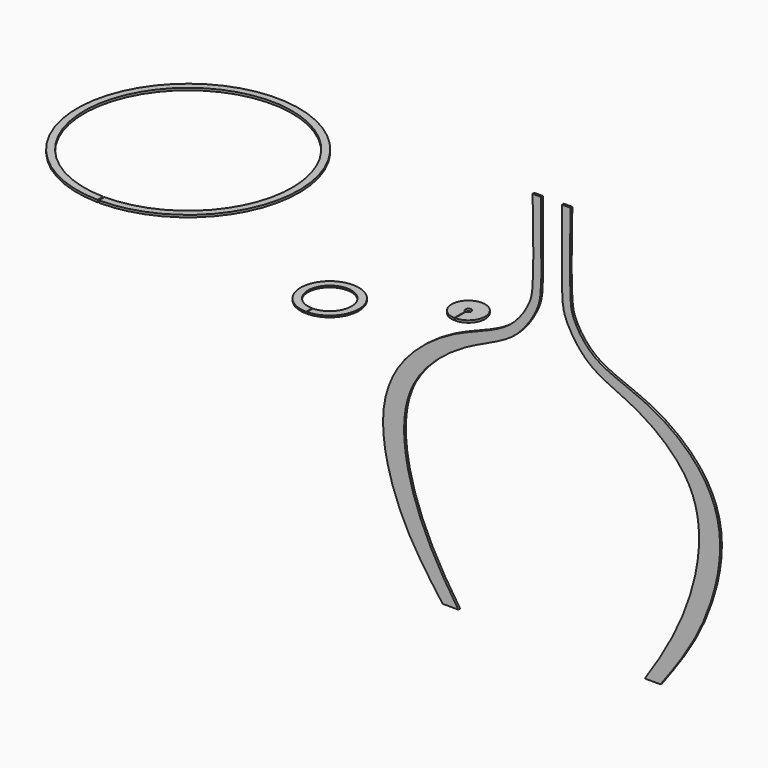
from build123d import *

# Parameters (mm, degrees)
F1_DEPTH = 0.4
F3_DEPTH = 0.4
F6_DEPTH = 0.3
F8_DEPTH = 0.4
F9_DEPTH = 0.4


with BuildPart() as f1:
    # F0 (on Front) → F1 (new body)
    with BuildSketch(Plane.XZ):
        with BuildLine():
            Line((3.4221610986, 0), (1.8824809231, 0))
            add(Edge.make_bspline(
                [(1.8824809231, 0), (1.8903812121, -5.9257154178), (1.6594668434, -14.4064557365), (2.4787172842, -18.43211263), (6.6506599647, -24.738490893), (15.7198781859, -27.5720263129), (27.4382807219, -36.9703939443), (26.5672023611, -53.5146710168), (21.0862921581, -64.1355530397), (16.817227006, -70.414558053)],
                knots=[0, 0, 0, 0, 0.1629214389, 0.247012266, 0.3567945031, 0.4886798756, 0.6462746816, 0.8097112488, 1, 1, 1, 1], degree=3))
            Line((16.817227006, -70.414558053), (19.6510907263, -70.414558053))
            add(Edge.make_bspline(
                [(3.4221610986, 0), (3.2444735314, -5.7591898503), (3.2349564943, -14.2906745538), (3.8118276563, -17.5808403399), (7.498018045, -23.4402005142), (17.8154663316, -26.1043224844), (27.8878603719, -33.7930801493), (31.7612136388, -44.7779110201), (27.5370112916, -59.6956080616), (22.2387276369, -66.8970857954), (19.6510907263, -70.414558053)],
                knots=[0, 0, 0, 0, 0.1487055839, 0.2183301192, 0.3137287288, 0.440892628, 0.5777724202, 0.7066287166, 0.8570783912, 1, 1, 1, 1], degree=3))
        make_face()
    extrude(amount=F1_DEPTH)


with BuildPart() as f3:
    # F2 (on Top) → F3 (new body)
    with BuildSketch(Plane.XY):
        with BuildLine():
            Line((-49.4176302, -39.4664883101), (-49.4176302, -40.7268284131))
            ThreePointArc((-49.4176302, -40.7268284131), (-49.1312031177, -0.6877838741), (-49.652604706, -40.7244579174))
            Line((-49.652604706, -40.7244579174), (-49.652604706, -39.4639585349))
            ThreePointArc((-49.652604706, -39.4639585349), (-49.1312026346, -1.9481804524), (-49.4176302, -39.4664883101))
        make_face()
    extrude(amount=F3_DEPTH)


with BuildPart() as f4_1:
    # F4: instance of F1
    add(f1.part.mirror(Plane.YZ))


with BuildPart() as f6:
    # F5 (on Top) → F6 (new body)
    with BuildSketch(Plane.XY):
        with BuildLine():
            Line((-5.3753433014, -47.5238926069), (-5.3753433014, -48.8651284462))
            ThreePointArc((-5.3753433014, -48.8651284462), (-5.4824619344, -38.3575708488), (-5.5057317572, -48.8656486739))
            Line((-5.5057317572, -48.8656486739), (-5.5057317572, -47.5245911583))
            ThreePointArc((-5.5057317572, -47.5245911583), (-5.4824632303, -39.6985788926), (-5.3753433014, -47.5238926069))
        make_face()
    extrude(amount=F6_DEPTH)


with BuildPart() as f8:
    # F7 (on Top) → F8 (new body)
    with BuildSketch(Plane.XY):
        with BuildLine():
            Line((12.1885957196, -34.9699395875), (12.1885957196, -37.4516981663))
            ThreePointArc((12.1885957196, -37.4516981663), (12.2885523534, -31.4072937312), (12.0817911632, -37.4489877083))
            Line((12.0817911632, -37.4489877083), (12.0817911632, -34.9545814097))
            ThreePointArc((12.0817911632, -34.9545814097), (12.2889239602, -33.8931805541), (12.1885957196, -34.9699395875))
        make_face()
    extrude(amount=F8_DEPTH)


with BuildPart() as f9:
    # F2 (on Top) → F9 (new body)
    with BuildSketch(Plane.XY):
        with BuildLine():
            Line((-49.4176302, -39.4664883101), (-49.4176302, -40.7268284131))
            ThreePointArc((-49.4176302, -40.7268284131), (-49.1312031177, -0.6877838741), (-49.652604706, -40.7244579174))
            Line((-49.652604706, -40.7244579174), (-49.652604706, -39.4639585349))
            ThreePointArc((-49.652604706, -39.4639585349), (-49.1312026346, -1.9481804524), (-49.4176302, -39.4664883101))
        make_face()
    extrude(amount=F9_DEPTH)


solid = Compound([f1.part, f3.part, f4_1.part, f6.part, f8.part, f9.part])
